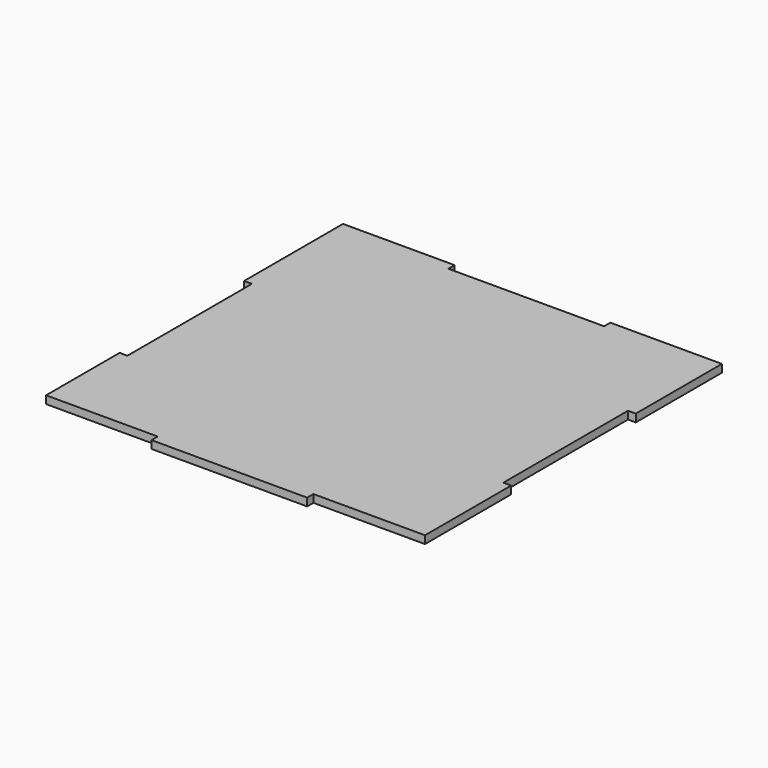
from build123d import *

# Parameters (mm, degrees)
F1_DEPTH = 3


with BuildPart() as f1:
    # F0 (on Top) → F1 (new body)
    with BuildSketch(Plane.XY):
        Polygon((30, -71.5), (73, -71.5), (73, -30), (70, -30), (70, 30), (73, 30), (73, 71.5), (30, 71.5), (30, 68.5), (-30, 68.5), (-30, 71.5), (-73, 71.5), (-73, 23.879936), (-70, 23.879936), (-70, -36.120064), (-73, -36.069253), (-73, -71.5), (-30, -71.5), (-30, -74.5), (30, -74.5), align=None)
    extrude(amount=F1_DEPTH)


solid = f1.part
